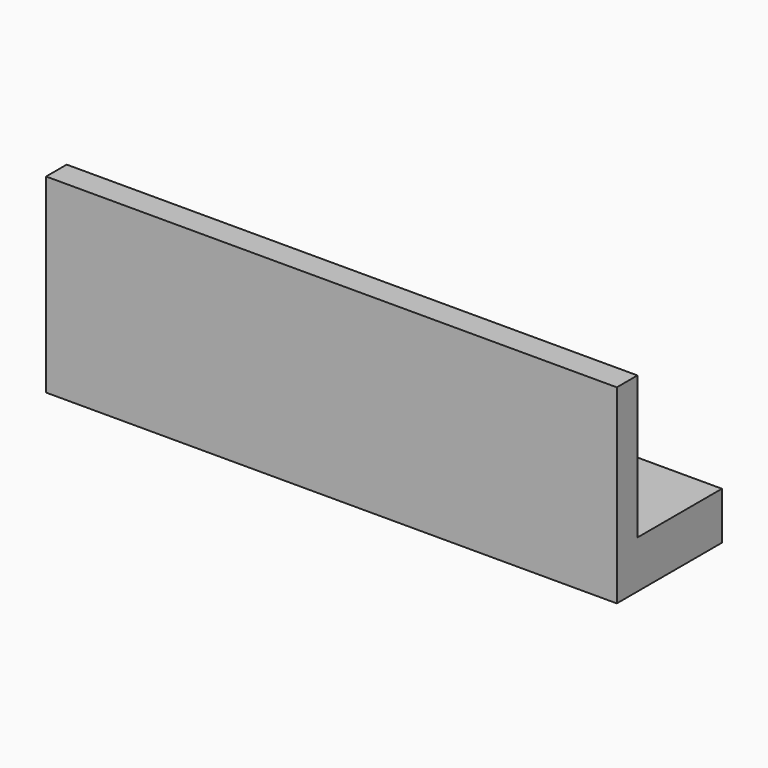
from build123d import *

# Parameters (mm, degrees)
F1_DEPTH = 20
F0_W     = 60
F0_H     = 11.102459
F2_DEPTH = 5


with BuildPart() as f1:
    # F0 (on Top) → F1 (new body)
    with BuildSketch(Plane.XY):
        Polygon((-30, 0), (0, 0), (30, 0), (30, 2.711066), (-30, 2.711066), align=None)
    extrude(amount=F1_DEPTH)

    # F0 (on Top) → F2 (join)
    with BuildSketch(Plane.XY):
        Polygon((-30, 0), (0, 0), (30, 0), (30, 2.711066), (-30, 2.711066), align=None)
        with Locations((0, 8.262295)):
            Rectangle(F0_W, F0_H)
    extrude(amount=F2_DEPTH)


solid = f1.part
